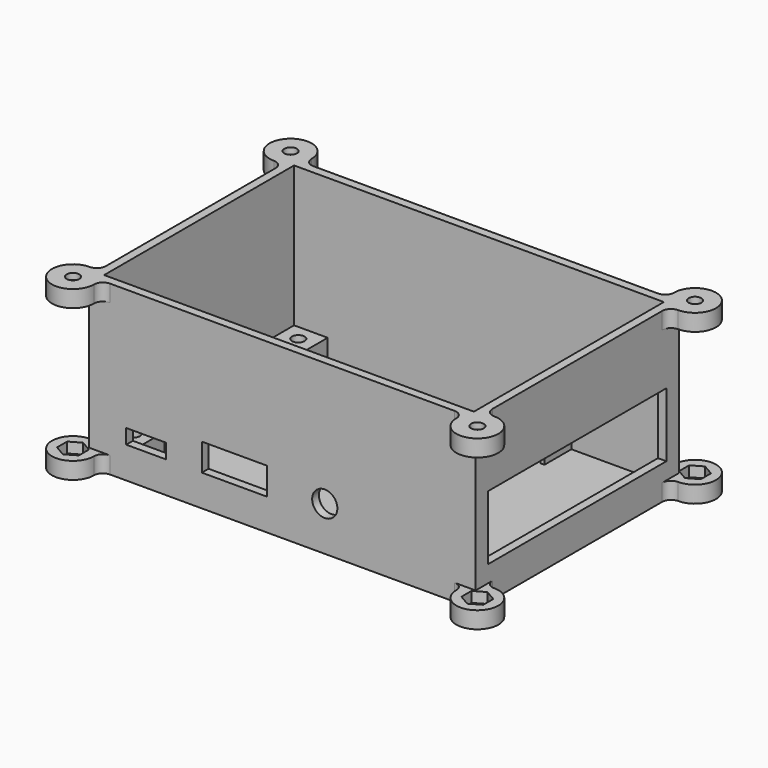
from build123d import *

# Parameters (mm, degrees)
PAD007_DEPTH            = 4
SKETCH058_W             = 60.5
SKETCH058_H             = 92
PAD008_DEPTH            = 32
POCKET006_DEPTH         = 2.5
SKETCH059_R             = 1.5
POCKET007_DEPTH         = 1.5
PAD009_DEPTH            = 4
SKETCH061_W             = 56.5
SKETCH061_H             = 88
POCKET008_DEPTH         = 38
SKETCH062_R             = 2.55
POCKET009_DEPTH         = 2.5
SKETCH063_R             = 1.5
POCKET010_DEPTH         = 1.5
SKETCH064_W             = 8
SKETCH064_H             = 8
PAD010_DEPTH            = 4.5
SKETCH065_W             = 6
SKETCH065_H             = 2.5
POCKET011_DEPTH         = 8
SKETCH066_W             = 6
SKETCH066_H             = 2.5
POCKET012_DEPTH         = 8
SKETCH067_R             = 1.5
POCKET013_DEPTH         = 2
SKETCH068_W             = 53
SKETCH068_H             = 15.3
POCKET014_DEPTH         = 2
SKETCH069_R             = 3
SKETCH069_W             = 15.5
SKETCH069_H             = 6.5
SKETCH069_W_2           = 9.5
SKETCH069_H_2           = 3.5
POCKET015_DEPTH         = 2
SKETCH070_W             = 5
SKETCH070_H             = 5
POCKET016_DEPTH         = 2
BODY003_PLACEMENT_ANGLE = 90


with BuildPart() as part:
    # Sketch054 → Pad007 (new body)
    with BuildSketch(Plane.XY):
        with BuildLine():
            ThreePointArc((-27.37132, 48.12132), (-35.906854, 51.656854), (-32.37132, 43.12132))
            ThreePointArc((-30.25, 41), (-30.87132, 42.5), (-32.37132, 43.12132))
            Line((-30.25, 41), (-30.25, -41))
            ThreePointArc((-32.37132, -43.12132), (-30.87132, -42.5), (-30.25, -41))
            ThreePointArc((-32.37132, -43.12132), (-35.906854, -51.656854), (-27.37132, -48.12132))
            ThreePointArc((-25.25, -46), (-26.75, -46.62132), (-27.37132, -48.12132))
            Line((-25.25, -46), (25.25, -46))
            ThreePointArc((27.37132, -48.12132), (26.75, -46.62132), (25.25, -46))
            ThreePointArc((27.37132, -48.12132), (35.906854, -51.656854), (32.37132, -43.12132))
            ThreePointArc((30.25, -41), (30.87132, -42.5), (32.37132, -43.12132))
            Line((30.25, 41), (30.25, -41))
            ThreePointArc((32.37132, 43.12132), (30.87132, 42.5), (30.25, 41))
            ThreePointArc((32.37132, 43.12132), (35.906854, 51.656854), (27.37132, 48.12132))
            ThreePointArc((25.250016, 46), (26.750006, 46.621326), (27.37132, 48.12132))
            Line((-25.25, 46), (25.250016, 46))
            ThreePointArc((-27.37132, 48.12132), (-26.75, 46.62132), (-25.25, 46))
        make_face()
    extrude(amount=PAD007_DEPTH)

    # Sketch058 (on Face18 of Pad007) → Pad008 (join)
    with BuildSketch(Plane.XY.offset(4)):
        Rectangle(SKETCH058_W, SKETCH058_H)
    extrude(amount=PAD008_DEPTH)

    # Sketch057 (on Face4 of Pad008) → Pocket006 (cut)
    with BuildSketch(Plane.XY.offset(4)):
        Polygon((-30.87132, 50.718076), (-33.87132, 50.718076), (-35.37132, 48.12), (-33.87132, 45.521924), (-30.87132, 45.521924), (-29.37132, 48.12), align=None)
        Polygon((33.87132, 50.718076), (30.87132, 50.718076), (29.37132, 48.12), (30.87132, 45.521924), (33.87132, 45.521924), (35.37132, 48.12), align=None)
        Polygon((33.87132, -45.521924), (30.87132, -45.521924), (29.37132, -48.12), (30.87132, -50.718076), (33.87132, -50.718076), (35.37132, -48.12), align=None)
        Polygon((-30.87132, -45.521924), (-33.87132, -45.521924), (-35.37132, -48.12), (-33.87132, -50.718076), (-30.87132, -50.718076), (-29.37132, -48.12), align=None)
    extrude(amount=-POCKET006_DEPTH, mode=Mode.SUBTRACT)

    # Sketch059 (on Face35 of Pocket006) → Pocket007 (cut)
    with BuildSketch(Plane.XY.offset(1.5)):
        with Locations((-32.37132, 48.12)):
            Circle(SKETCH059_R)
        with Locations((32.37132, 48.12)):
            Circle(SKETCH059_R)
        with Locations((-32.37132, -48.12)):
            Circle(SKETCH059_R)
        with Locations((32.37132, -48.12)):
            Circle(SKETCH059_R)
    extrude(amount=-POCKET007_DEPTH, mode=Mode.SUBTRACT)

    # Sketch060 (on Face8 of Pocket007) → Pad009 (join)
    with BuildSketch(Plane.XY.offset(36)):
        with BuildLine():
            ThreePointArc((-27.37132, 48.12132), (-35.906854, 51.656854), (-32.37132, 43.12132))
            ThreePointArc((-30.25, 41), (-30.87132, 42.5), (-32.37132, 43.12132))
            Line((-30.25, 41), (-30.25, -41))
            ThreePointArc((-32.37132, -43.12132), (-30.87132, -42.5), (-30.25, -41))
            ThreePointArc((-32.37132, -43.12132), (-35.906854, -51.656854), (-27.37132, -48.12132))
            ThreePointArc((-25.25, -46), (-26.75, -46.62132), (-27.37132, -48.12132))
            Line((-25.25, -46), (25.25, -46))
            ThreePointArc((27.37132, -48.12132), (26.75, -46.62132), (25.25, -46))
            ThreePointArc((27.37132, -48.12132), (35.906854, -51.656854), (32.37132, -43.12132))
            ThreePointArc((30.25, -41), (30.87132, -42.5), (32.37132, -43.12132))
            Line((30.25, 41), (30.25, -41))
            ThreePointArc((32.37132, 43.12132), (30.87132, 42.5), (30.25, 41))
            ThreePointArc((32.37132, 43.12132), (35.906854, 51.656854), (27.37132, 48.12132))
            ThreePointArc((25.250016, 46), (26.750006, 46.621326), (27.37132, 48.12132))
            Line((-25.25, 46), (25.250016, 46))
            ThreePointArc((-27.37132, 48.12132), (-26.75, 46.62132), (-25.25, 46))
        make_face()
    extrude(amount=PAD009_DEPTH)

    # Sketch061 (on Face57 of Pad009) → Pocket008 (cut)
    with BuildSketch(Plane.XY.offset(40)):
        Rectangle(SKETCH061_W, SKETCH061_H)
    extrude(amount=-POCKET008_DEPTH, mode=Mode.SUBTRACT)

    # Sketch062 (on Face36 of Pocket008) → Pocket009 (cut)
    with BuildSketch(Plane(origin=(0, 0, 36), x_dir=(1, 0, 0), z_dir=(0, 0, -1))):
        with Locations((-32.37132, 48.12)):
            Circle(SKETCH062_R)
        with Locations((32.37132, 48.12)):
            Circle(SKETCH062_R)
        with Locations((-32.37132, -48.12)):
            Circle(SKETCH062_R)
        with Locations((32.37132, -48.12)):
            Circle(SKETCH062_R)
    extrude(amount=-POCKET009_DEPTH, mode=Mode.SUBTRACT)

    # Sketch063 (on Face10 of Pocket009) → Pocket010 (cut)
    with BuildSketch(Plane.XY.offset(40)):
        with Locations((-32.37132, 48.12)):
            Circle(SKETCH063_R)
        with Locations((32.37132, 48.12)):
            Circle(SKETCH063_R)
        with Locations((-32.37132, -48.12)):
            Circle(SKETCH063_R)
        with Locations((32.37132, -48.12)):
            Circle(SKETCH063_R)
    extrude(amount=-POCKET010_DEPTH, mode=Mode.SUBTRACT)

    # Sketch064 (on Face79 of Pocket010) → Pad010 (join)
    with BuildSketch(Plane.XY.offset(2)):
        with Locations((-24.25, 40)):
            Rectangle(SKETCH064_W, SKETCH064_H)
        with Locations((24.25, 40)):
            Rectangle(SKETCH064_W, SKETCH064_H)
        with Locations((-24.25, -18)):
            Rectangle(SKETCH064_W, SKETCH064_H)
        with Locations((24.25, -18)):
            Rectangle(SKETCH064_W, SKETCH064_H)
    extrude(amount=PAD010_DEPTH)

    # Sketch065 (on Face85 of Pad010) → Pocket011 (cut)
    with BuildSketch(Plane.YZ.offset(-20.25)):
        with Locations((-18, 3.25)):
            Rectangle(SKETCH065_W, SKETCH065_H)
        with Locations((40, 3.25)):
            Rectangle(SKETCH065_W, SKETCH065_H)
    extrude(amount=-POCKET011_DEPTH, mode=Mode.SUBTRACT)

    # Sketch066 (on Face85 of Pocket011) → Pocket012 (cut)
    with BuildSketch(Plane(origin=(20.25, 0, 0), x_dir=(0, -1, 0), z_dir=(-1, 0, 0))):
        with Locations((-40, 3.25)):
            Rectangle(SKETCH066_W, SKETCH066_H)
        with Locations((18, 3.25)):
            Rectangle(SKETCH066_W, SKETCH066_H)
    extrude(amount=-POCKET012_DEPTH, mode=Mode.SUBTRACT)

    # Sketch067 (on Face83 of Pocket012) → Pocket013 (cut)
    with BuildSketch(Plane.XY.offset(6.5)):
        with Locations((-24.5, 40)):
            Circle(SKETCH067_R)
        with Locations((24.5, 40)):
            Circle(SKETCH067_R)
        with Locations((-24.5, -18)):
            Circle(SKETCH067_R)
        with Locations((24.5, -18)):
            Circle(SKETCH067_R)
    extrude(amount=-POCKET013_DEPTH, mode=Mode.SUBTRACT)

    # Sketch068 (on Face22 of Pocket013) → Pocket014 (cut)
    with BuildSketch(Plane.XZ.offset(46)):
        with Locations((0, 15.65)):
            Rectangle(SKETCH068_W, SKETCH068_H)
    extrude(amount=-POCKET014_DEPTH, mode=Mode.SUBTRACT)

    # Sketch069 (on Face7 of Pocket014) → Pocket015 (cut)
    with BuildSketch(Plane(origin=(-30.25, 0, 0), x_dir=(0, -1, 0), z_dir=(-1, 0, 0))):
        with Locations((10.1, 10.5)):
            Circle(SKETCH069_R)
        with Locations((-11.4, 10.75)):
            Rectangle(SKETCH069_W, SKETCH069_H)
        with Locations((-32.4, 9.25)):
            Rectangle(SKETCH069_W_2, SKETCH069_H_2)
    extrude(amount=-POCKET015_DEPTH, mode=Mode.SUBTRACT)

    # Sketch070 (on Face3 of Pocket015) → Pocket016 (cut)
    with BuildSketch(Plane(origin=(0, 46, 0), x_dir=(-1, 0, 0), z_dir=(0, 1, 0))):
        with Locations((15.5, 10.6)):
            Rectangle(SKETCH070_W, SKETCH070_H)
    extrude(amount=-POCKET016_DEPTH, mode=Mode.SUBTRACT)


with BuildPart() as part_1:
    # Body003 placement: moved
    add(part.part.moved(Location((64, 0, -5))).rotate(Axis((64, 0, -5), (0, 0, 1)), BODY003_PLACEMENT_ANGLE))


solid = part_1.part
